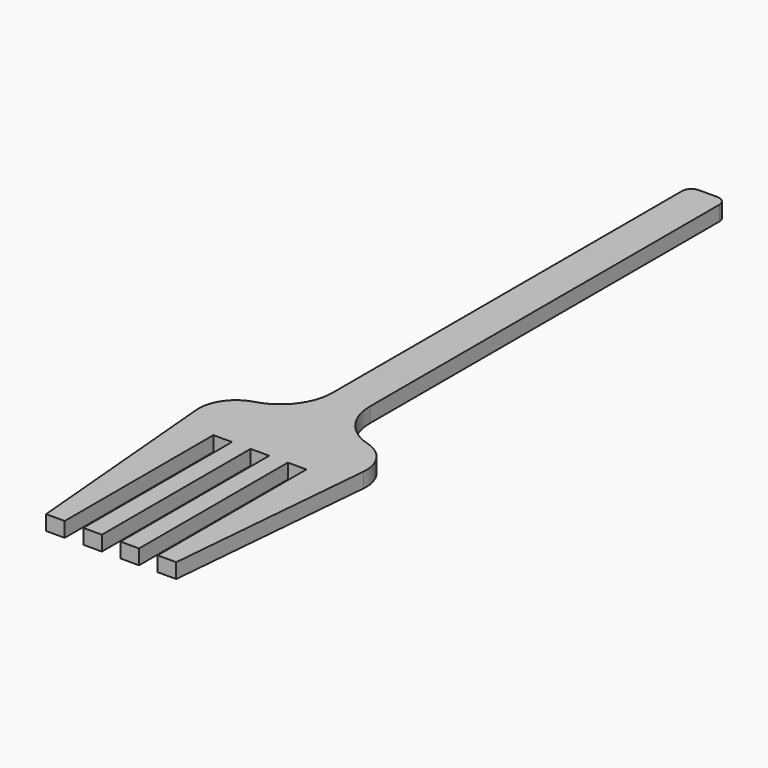
from build123d import *

# Parameters (mm, degrees)
F1_DEPTH = 2.54


with BuildPart() as f1:
    # F0 (on Top) → F1 (new body)
    with BuildSketch(Plane.XY):
        with BuildLine():
            ThreePointArc((-1.5875, 76.2), (-2.710032, 75.735032), (-3.175, 74.6125))
            Line((-3.175, 74.6125), (-3.175, 0))
            ThreePointArc((-3.175, 0), (-4.978512, -5.367847), (-9.657292, -8.557747))
            ThreePointArc((-9.657292, -8.557747), (-13.161704, -11.060688), (-14.263336, -15.223863))
            Line((-14.263336, -15.223863), (-11.1125, -51.238087))
            Line((-11.1125, -51.238087), (-7.9375, -51.238087))
            Line((-7.9375, -51.238087), (-7.9375, -19.488087))
            Line((-7.9375, -19.488087), (-4.7625, -19.488087))
            Line((-4.7625, -19.488087), (-4.7625, -51.238087))
            Line((-4.7625, -51.238087), (-1.5875, -51.238087))
            Line((-1.5875, -51.238087), (-1.5875, -19.488087))
            Line((-1.5875, -19.488087), (0, -19.488087))
            Line((0, -19.488087), (1.5875, -19.488087))
            Line((1.5875, -19.488087), (1.5875, -51.238087))
            Line((1.5875, -51.238087), (4.7625, -51.238087))
            Line((4.7625, -51.238087), (4.7625, -19.488087))
            Line((4.7625, -19.488087), (7.9375, -19.488087))
            Line((7.9375, -19.488087), (7.9375, -51.238087))
            Line((7.9375, -51.238087), (11.1125, -51.238087))
            Line((11.1125, -51.238087), (14.263336, -15.223863))
            ThreePointArc((14.263336, -15.223863), (13.161704, -11.060688), (9.657292, -8.557747))
            ThreePointArc((9.657292, -8.557747), (4.978512, -5.367847), (3.175, 0))
            Line((3.175, 0), (3.175, 74.6125))
            ThreePointArc((3.175, 74.6125), (2.710032, 75.735032), (1.5875, 76.2))
            Line((1.5875, 76.2), (-1.5875, 76.2))
        make_face()
    extrude(amount=F1_DEPTH)


solid = f1.part
